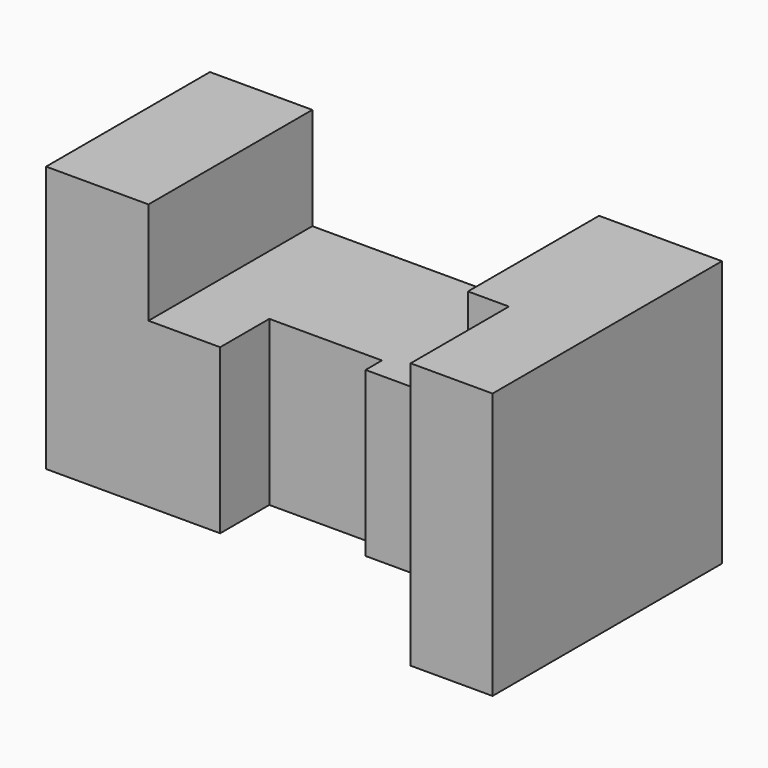
from build123d import *

# Parameters (mm, degrees)
F1_DEPTH = 40
F0_W     = 25
F0_H     = 50
F2_DEPTH = 65


with BuildPart() as f1:
    # F0 (on Top) → F1 (new body)
    with BuildSketch(Plane.XY):
        Polygon((95, 0), (25, 0), (25, -50), (42.5, -50), (42.5, -35), (70, -35), (70, -40), (95, -40), align=None)
    extrude(amount=F1_DEPTH)

    # F0 (on Top) → F2 (join)
    with BuildSketch(Plane.XY):
        with Locations((12.5, -25)):
            Rectangle(F0_W, F0_H)
        Polygon((125, 0), (95, 0), (95, -40), (105, -40), (105, -70), (125, -70), align=None)
    extrude(amount=F2_DEPTH)


solid = f1.part
